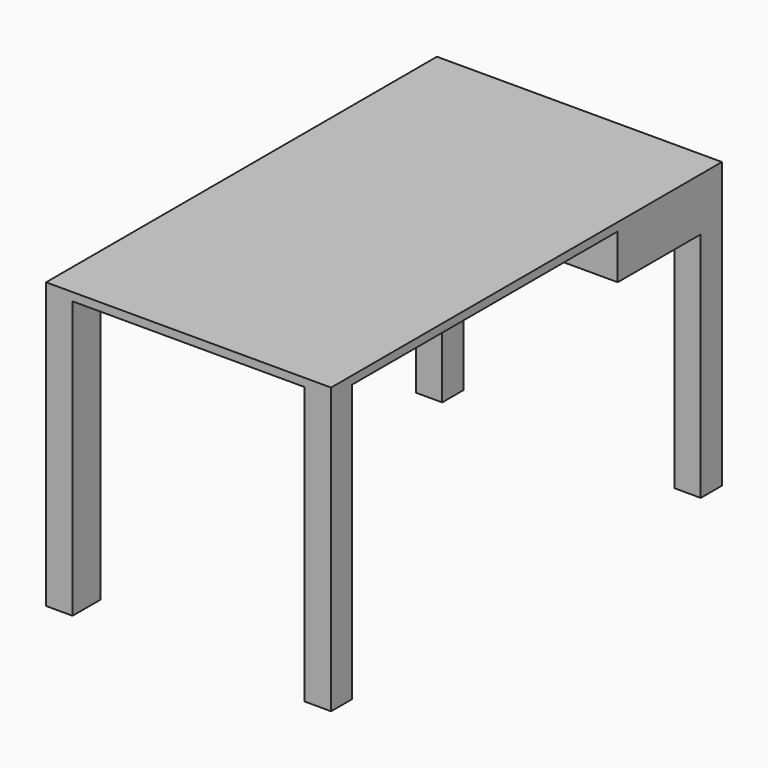
from build123d import *

# Parameters (mm, degrees)
F0_W     = 700
F0_H     = 1200
F1_DEPTH = 20
F2_W     = 700
F2_H     = 320
F3_DEPTH = 110
F5_DEPTH = 680
F6_W     = 65
F6_H     = 85.7172418142
F6_H_2   = 65
F7_DEPTH = 680
F8_W     = 65
F8_H     = 65
F9_DEPTH = 570


with BuildPart() as f1:
    # F0 (on Top) → F1 (new body)
    with BuildSketch(Plane.XY):
        with Locations((252.932651341, 530.4207488894)):
            Rectangle(F0_W, F0_H)
    extrude(amount=F1_DEPTH)

    # F2 (on face) → F3 (join)
    with BuildSketch(Plane(origin=(0, 0, 0), x_dir=(1, 0, 0), z_dir=(0, 0, -1))):
        with Locations((252.932651341, -970.4207488894)):
            Rectangle(F2_W, F2_H)
    extrude(amount=F3_DEPTH)

    # F4 (on face) → F5 (cut)
    with BuildSketch(Plane(origin=(-97.067348659, 0, 0), x_dir=(0, -1, 0), z_dir=(-1, 0, 0))):
        Polygon((-830.4207488894, -55), (-830.4207488894, 0), (-1110.4207488894, 0), (-1110.4207488894, -55), (-1110.4207488894, -90), (-1005.1395893097, -90), (-830.4207488894, -90), align=None)
    extrude(amount=-F5_DEPTH, mode=Mode.SUBTRACT)

    # F6 (on face) → F7 (join)
    with BuildSketch(Plane(origin=(0, 0, 0), x_dir=(1, 0, 0), z_dir=(0, 0, -1))):
        with Locations((-64.567348659, 26.7206302035)):
            Rectangle(F6_W, F6_H)
        with Locations((570.432651341, 37.0792511106)):
            Rectangle(F6_W, F6_H_2)
    extrude(amount=F7_DEPTH)

    # F8 (on face) → F9 (join)
    with BuildSketch(Plane(origin=(0, 0, -110), x_dir=(1, 0, 0), z_dir=(0, 0, -1))):
        with Locations((-64.567348659, -1097.9207488894)):
            Rectangle(F8_W, F8_H)
        with Locations((570.432651341, -1097.9207488894)):
            Rectangle(F8_W, F8_H)
    extrude(amount=F9_DEPTH)


solid = f1.part
